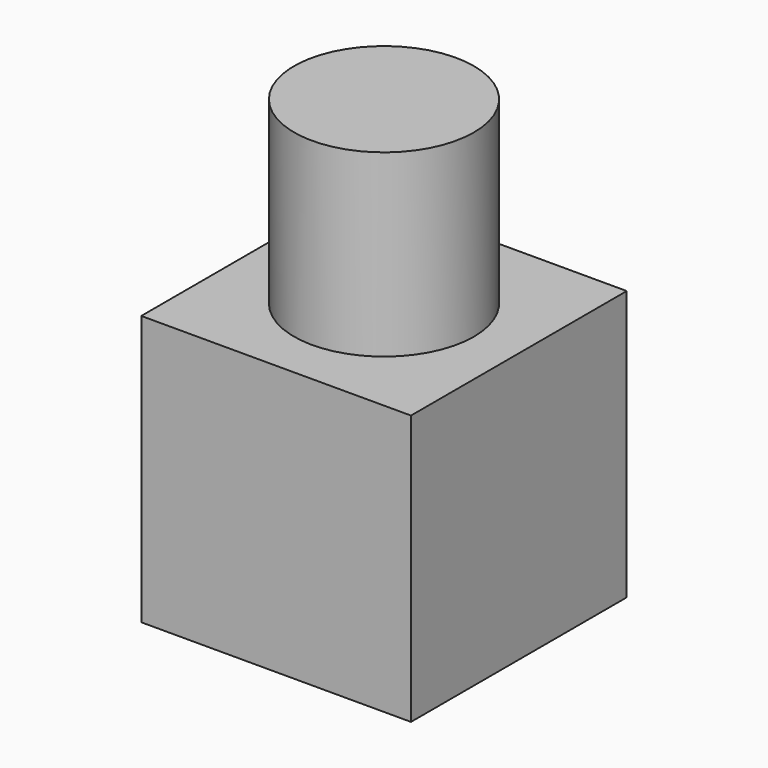
from build123d import *

# Parameters (mm, degrees)
F0_W     = 76.2
F0_H     = 76.2
F1_DEPTH = 38.1
F2_R     = 25.4
F3_DEPTH = 50.8


with BuildPart() as f1:
    # F0 (on Top) → F1 (new body, symmetric)
    with BuildSketch(Plane.XY):
        Rectangle(F0_W, F0_H)
    extrude(amount=F1_DEPTH, both=True)

    # F2 (on face) → F3 (join)
    with BuildSketch(Plane.XY.offset(38.1)):
        Circle(F2_R)
    extrude(amount=F3_DEPTH)


solid = f1.part
